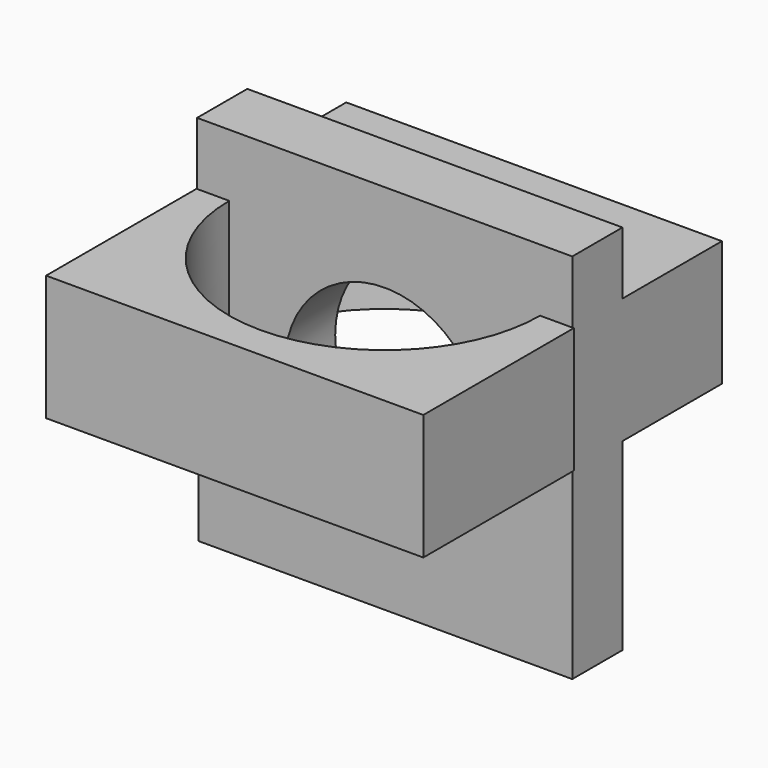
from build123d import *

# Parameters (mm, degrees)
F1_DEPTH = 25.4
F3_DEPTH = 50.8


with BuildPart() as f1:
    # F0 (on Front) → F1 (new body)
    with BuildSketch(Plane.XZ):
        with BuildLine():
            Line((75.929284, 0), (40.347628, 0))
            ThreePointArc((40.347628, 0), (0, -40.347628), (-40.347628, 0))
            Line((-40.347628, 0), (-75.306967, 0))
            Line((-75.306967, 0), (-75.306967, -74.477106))
            Line((-75.306967, -74.477106), (75.929284, -74.477106))
            Line((75.929284, -74.477106), (75.929284, 0))
        make_face()
        with BuildLine():
            ThreePointArc((-40.347628, 0), (0, 40.347628), (40.347628, 0))
            Line((40.347628, 0), (75.929284, 0))
            Line((75.929284, 0), (75.929284, 76.136783))
            Line((75.929284, 76.136783), (-75.929344, 76.136783))
            Line((-75.929344, 76.136783), (-75.929344, 0))
            Line((-75.929344, 0), (-75.306967, 0))
            Line((-75.306967, 0), (-40.347628, 0))
        make_face()
    extrude(amount=-F1_DEPTH)

    # F2 (on Top) → F3 (join)
    with BuildSketch(Plane.XY):
        with BuildLine():
            Line((75.929284, 0), (62.908788, 0))
            ThreePointArc((62.908788, 0), (0, -62.908788), (-62.908788, 0))
            Line((-62.908788, 0), (-76.136798, 0))
            Line((-76.136798, 0), (-76.136798, -76.136753))
            Line((-76.136798, -76.136753), (76.551646, -76.136753))
            Line((76.551646, -76.136753), (76.551646, 0))
            Line((76.551646, 0), (75.929284, 0))
        make_face()
        with BuildLine():
            ThreePointArc((-62.908788, 0), (0, 62.908788), (62.908788, 0))
            Line((62.908788, 0), (75.929284, 0))
            Line((75.929284, 0), (75.929284, 75.721867))
            Line((75.929284, 75.721867), (-76.136798, 75.721867))
            Line((-76.136798, 75.721867), (-76.136798, 0))
            Line((-76.136798, 0), (-62.908788, 0))
        make_face()
    extrude(amount=F3_DEPTH)


solid = f1.part
